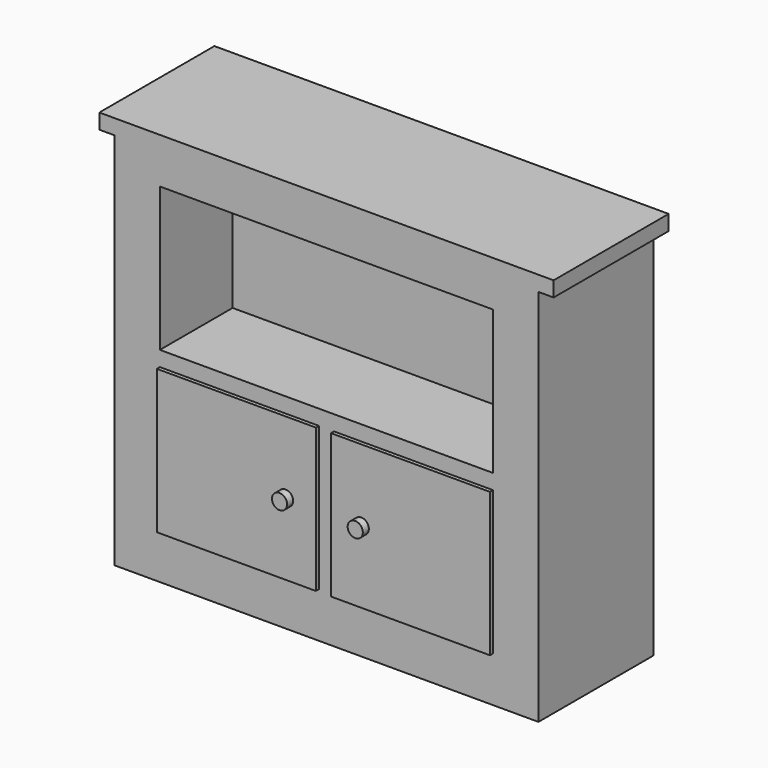
from build123d import *

# Parameters (mm, degrees)
F0_W     = 711.2
F0_H     = 635
F0_W_2   = 266.7
F0_H_2   = 241.3
F0_W_3   = 558.8
F0_R     = 12.7
F1_DEPTH = 241.3
F2_DEPTH = 152.4
F3_DEPTH = 6.35
F4_DEPTH = 19.05


with BuildPart() as f1:
    # F0 (on Front) → F1 (new body)
    with BuildSketch(Plane.XZ):
        with Locations((355.6, 317.5)):
            Rectangle(F0_W, F0_H)
        with Locations((209.55, 196.85)):
            Rectangle(F0_W_2, F0_H_2, mode=Mode.SUBTRACT)
        with Locations((501.65, 196.85)):
            Rectangle(F0_W_2, F0_H_2, mode=Mode.SUBTRACT)
        with Locations((355.6, 463.55)):
            Rectangle(F0_W_3, F0_H_2, mode=Mode.SUBTRACT)
        Polygon((-25.4, 635), (0, 635), (711.2, 635), (736.6, 635), (736.6, 660.4), (-25.4, 660.4), align=None)
        with Locations((209.55, 196.85)):
            Rectangle(F0_W_2, F0_H_2)
        with Locations((292.1, 196.85)):
            Circle(F0_R, mode=Mode.SUBTRACT)
        with Locations((501.65, 196.85)):
            Rectangle(F0_W_2, F0_H_2)
        with Locations((419.1, 196.85)):
            Circle(F0_R, mode=Mode.SUBTRACT)
        with Locations((419.1, 196.85)):
            Circle(F0_R)
        with Locations((292.1, 196.85)):
            Circle(F0_R)
        with Locations((355.6, 463.55)):
            Rectangle(F0_W_3, F0_H_2)
    extrude(amount=-F1_DEPTH)

    # F0 (on Front) → F2 (cut)
    with BuildSketch(Plane.XZ):
        with Locations((355.6, 463.55)):
            Rectangle(F0_W_3, F0_H_2)
    extrude(amount=-F2_DEPTH, mode=Mode.SUBTRACT)

    # F0 (on Front) → F3 (join)
    with BuildSketch(Plane.XZ):
        with Locations((209.55, 196.85)):
            Rectangle(F0_W_2, F0_H_2)
        with Locations((292.1, 196.85)):
            Circle(F0_R, mode=Mode.SUBTRACT)
        with Locations((501.65, 196.85)):
            Rectangle(F0_W_2, F0_H_2)
        with Locations((419.1, 196.85)):
            Circle(F0_R, mode=Mode.SUBTRACT)
        with Locations((419.1, 196.85)):
            Circle(F0_R)
        with Locations((292.1, 196.85)):
            Circle(F0_R)
    extrude(amount=F3_DEPTH)

    # F0 (on Front) → F4 (join)
    with BuildSketch(Plane.XZ):
        with Locations((419.1, 196.85)):
            Circle(F0_R)
        with Locations((292.1, 196.85)):
            Circle(F0_R)
    extrude(amount=F4_DEPTH)


solid = f1.part
